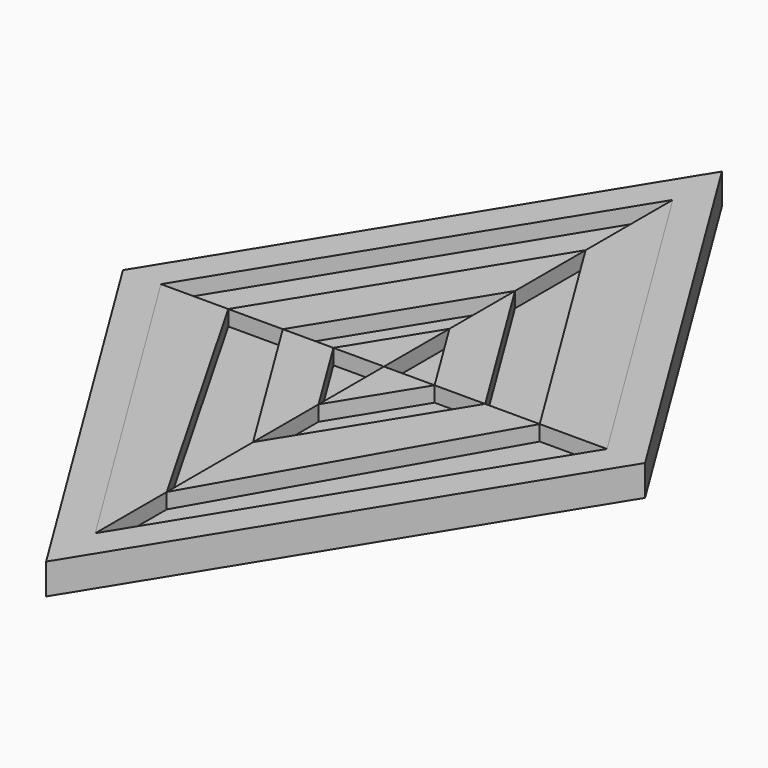
from build123d import *

# Parameters (mm, degrees)
F1_DEPTH = 3.175
F2_DEPTH = 1.5875
F3_DEPTH = 3.175


with BuildPart() as f1:
    # F0 (on Top) → F1 (new body)
    with BuildSketch(Plane.XY):
        Polygon((-41.258705, 0), (-68.239839, 43.65625), (-95.220973, 0), (-68.239839, -43.65625), align=None)
        Polygon((-68.239839, 37.30625), (-45.18322, 0), (-68.239839, -37.30625), (-91.296444, 0), align=None, mode=Mode.SUBTRACT)
    extrude(amount=F1_DEPTH)

    # F0 (on Top) → F2 (join)
    with BuildSketch(Plane.XY):
        Polygon((-57.782953, 0), (-52.14454, 0), (-68.239839, 26.042655), (-68.239839, 16.919542), align=None)
        Polygon((-68.239839, 0), (-63.011396, 0), (-68.239839, 8.459771), align=None)
        Polygon((-68.239839, 8.459771), (-68.239839, 16.919542), (-78.696725, 0), (-73.468282, 0), align=None)
        Polygon((-68.239839, 26.042655), (-68.239839, 37.30625), (-91.296444, 0), (-84.335137, 0), align=None)
        Polygon((-84.335137, 0), (-68.239839, -28.076844), (-68.239839, -16.919542), (-78.696725, 0), align=None)
        Polygon((-73.468282, 0), (-68.239839, -8.459771), (-68.239839, 0), align=None)
        Polygon((-68.239839, -16.919542), (-57.782953, 0), (-63.011396, 0), (-68.239839, -8.459771), align=None)
        Polygon((-68.239839, -37.30625), (-45.18322, 0), (-52.14454, 0), (-68.239839, -28.076844), align=None)
    extrude(amount=F2_DEPTH)


with BuildPart() as f3:
    # F0 (on Top) → F3 (new body)
    with BuildSketch(Plane.XY):
        Polygon((-52.14454, 0), (-45.18322, 0), (-68.239839, 37.30625), (-68.239839, 26.042655), align=None)
        Polygon((-63.011396, 0), (-57.782953, 0), (-68.239839, 16.919542), (-68.239839, 8.459771), align=None)
        Polygon((-68.239839, 0), (-68.239839, 8.459771), (-73.468282, 0), align=None)
        Polygon((-68.239839, 16.919542), (-68.239839, 26.042655), (-84.335137, 0), (-78.696725, 0), align=None)
        Polygon((-91.296444, 0), (-68.239839, -37.30625), (-68.239839, -28.076844), (-84.335137, 0), align=None)
        Polygon((-78.696725, 0), (-68.239839, -16.919542), (-68.239839, -8.459771), (-73.468282, 0), align=None)
        Polygon((-68.239839, -8.459771), (-63.011396, 0), (-68.239839, 0), align=None)
        Polygon((-68.239839, -28.076844), (-52.14454, 0), (-57.782953, 0), (-68.239839, -16.919542), align=None)
    extrude(amount=F3_DEPTH)


solid = Compound([f1.part, f3.part])
